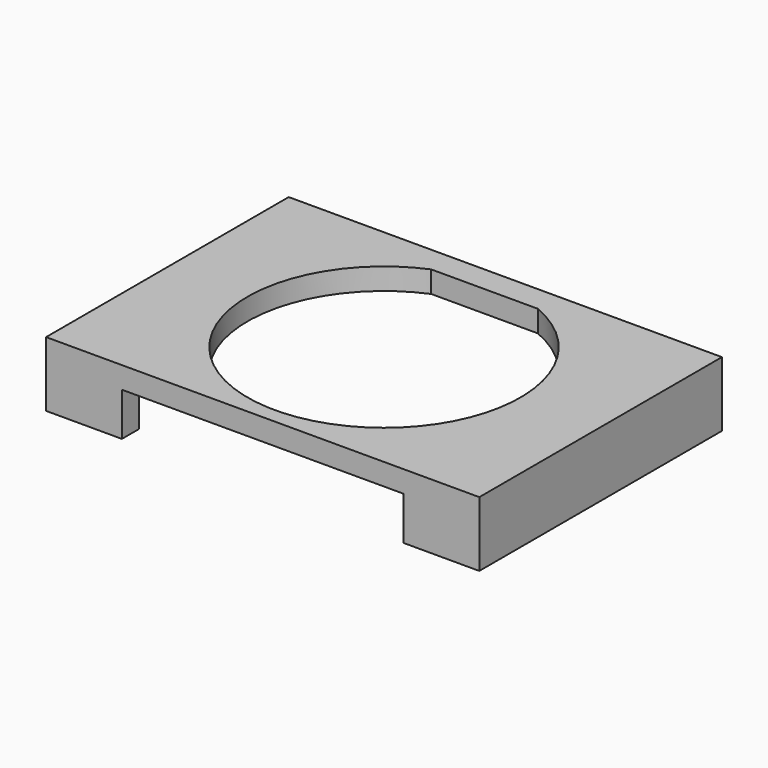
from build123d import *

# Parameters (mm, degrees)
F0_W     = 50.8
F0_H     = 35.56
F1_DEPTH = 2.54
F3_DEPTH = 5.08


with BuildPart() as f1:
    # F0 (on Top) → F1 (new body)
    with BuildSketch(Plane.XY):
        Rectangle(F0_W, F0_H)
        with BuildLine():
            ThreePointArc((6.247574, 14.732), (0, -16.002), (-6.247574, 14.732))
            Line((-6.247574, 14.732), (6.247574, 14.732))
        make_face(mode=Mode.SUBTRACT)
    extrude(amount=F1_DEPTH)

    # F2 (on face) → F3 (join)
    with BuildSketch(Plane(origin=(0, 0, 0), x_dir=(1, 0, 0), z_dir=(0, 0, -1))):
        Polygon((-25.4, -17.78), (-22.86, -17.78), (-22.86, 15.24), (-16.51, 15.24), (-16.51, 17.78), (-25.4, 17.78), align=None)
        Polygon((22.86, -17.78), (25.4, -17.78), (25.4, 17.78), (16.51, 17.78), (16.51, 15.24), (22.86, 15.24), align=None)
    extrude(amount=F3_DEPTH)


solid = f1.part
